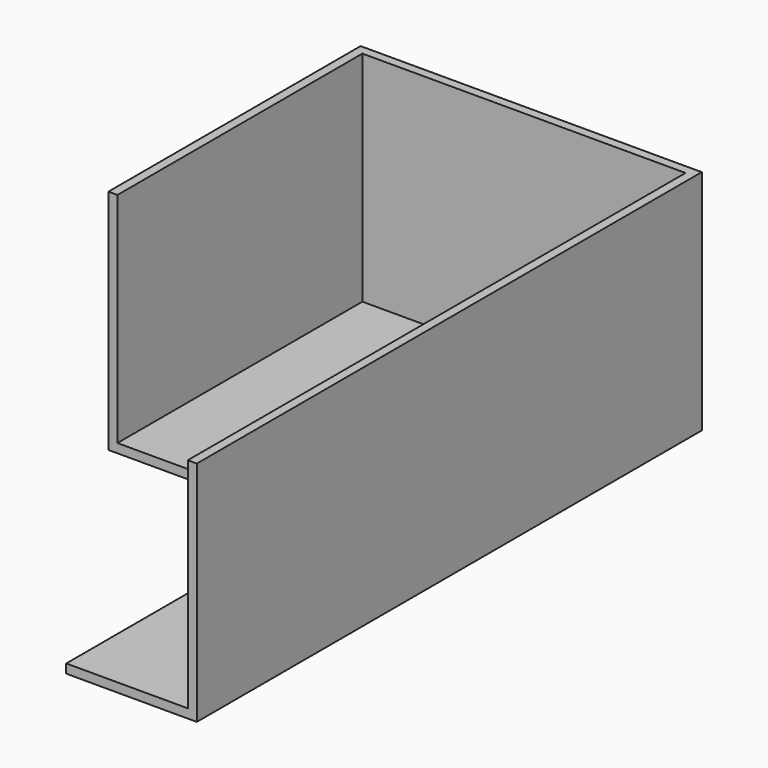
from build123d import *

# Parameters (mm, degrees)
F0_W     = 3779
F0_H     = 3491
F1_DEPTH = 100
F3_DEPTH = 2419
F5_DEPTH = 3500


with BuildPart() as f1:
    # F0 (on Top) → F1 (new body)
    with BuildSketch(Plane.XY):
        Rectangle(F0_W, F0_H)
    extrude(amount=F1_DEPTH)

    # F2 (on face) → F3 (join)
    with BuildSketch(Plane.XY.offset(100)):
        Polygon((-1789.5, 1745.5), (-1889.5, 1745.5), (-1889.5, -1745.5), (-1789.5, -1745.5), (-1789.5, 1645.5), (1789.5, 1645.5), (1789.5, -1645.5), (1789.5, -1745.5), (1889.5, -1745.5), (1889.5, 1745.5), (1789.5, 1745.5), align=None)
    extrude(amount=F3_DEPTH)

    # F4 (on face) → F5 (join)
    with BuildSketch(Plane.XZ.offset(1745.5)):
        Polygon((1889.5, 2519), (1789.5, 2519), (1789.5, 100), (443.5, 100), (443.5, 0), (1889.5, 0), align=None)
    extrude(amount=F5_DEPTH)


solid = f1.part
